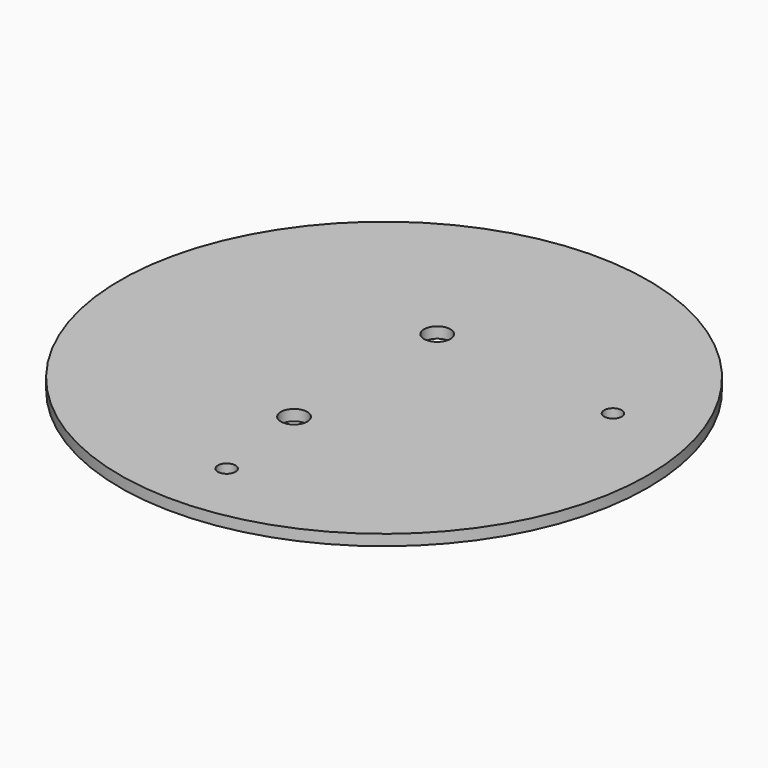
from build123d import *

# Parameters (mm, degrees)
F0_R     = 38.1
F0_R_2   = 1.905
F0_R_3   = 1.27
F1_DEPTH = 1.5748


with BuildPart() as f1:
    # F0 (on Top) → F1 (new body)
    with BuildSketch(Plane.XY):
        Circle(F0_R)
        with Locations((-1.9812, -13.7668)):
            Circle(F0_R_2, mode=Mode.SUBTRACT)
        with Locations((0, -28.397553)):
            Circle(F0_R_3, mode=Mode.SUBTRACT)
        with Locations((-1.9812, 12.065)):
            Circle(F0_R_2, mode=Mode.SUBTRACT)
        with Locations((25.5778, 9.3218)):
            Circle(F0_R_3, mode=Mode.SUBTRACT)
    extrude(amount=F1_DEPTH)


solid = f1.part
